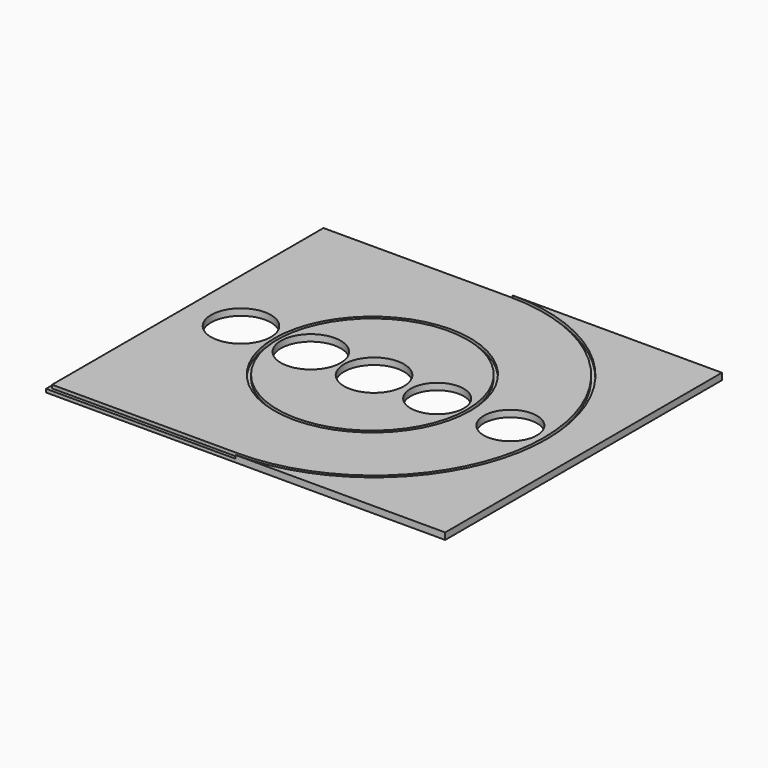
from build123d import *

# Parameters (mm, degrees)
F0_W     = 762
F0_H     = 660.4
F1_DEPTH = 12.7
F2_R     = 50.8
F2_R_2   = 57.15
F3_DEPTH = 12.701
F4_R     = 187.325
F4_R_2   = 180.975
F5_DEPTH = 6.35


with BuildPart() as f1:
    # F0 (on Top) → F1 (new body)
    with BuildSketch(Plane.XY):
        with Locations((-381, 330.2)):
            Rectangle(F0_W, F0_H)
    extrude(amount=F1_DEPTH)

    # F2 (on face) → F3 (cut, through all)
    with BuildSketch(Plane.XY.offset(12.7)):
        with Locations((-139.7, 330.2)):
            Circle(F2_R)
        with Locations((-279.4, 330.2)):
            Circle(F2_R)
        with Locations((-400.05, 330.2)):
            Circle(F2_R_2)
        with Locations((-520.7, 330.2)):
            Circle(F2_R_2)
        with Locations((-654.05, 330.2)):
            Circle(F2_R_2)
    extrude(amount=-F3_DEPTH, mode=Mode.SUBTRACT)

    # F4 (on face) → F5 (cut)
    with BuildSketch(Plane.XY.offset(12.7)):
        with BuildLine():
            Line((-762, 0), (-400.050008, 0))
            ThreePointArc((-400.050008, 0), (-69.850008, 330.2), (-400.050008, 660.4))
            Line((-400.050008, 660.4), (-762, 660.4))
            Line((-762, 660.4), (-762, 0))
        make_face()
        with BuildLine():
            ThreePointArc((-400.050008, 654.050008), (-76.2, 330.2), (-400.050008, 6.349992))
            Line((-400.050008, 6.349992), (-755.65, 6.349992))
            Line((-755.65, 6.349992), (-755.65, 654.050008))
            Line((-755.65, 654.050008), (-400.050008, 654.050008))
        make_face(mode=Mode.SUBTRACT)
        with Locations((-403.225, 330.2)):
            Circle(F4_R)
        with Locations((-403.225, 330.2)):
            Circle(F4_R_2, mode=Mode.SUBTRACT)
    extrude(amount=-F5_DEPTH, mode=Mode.SUBTRACT)


solid = f1.part
